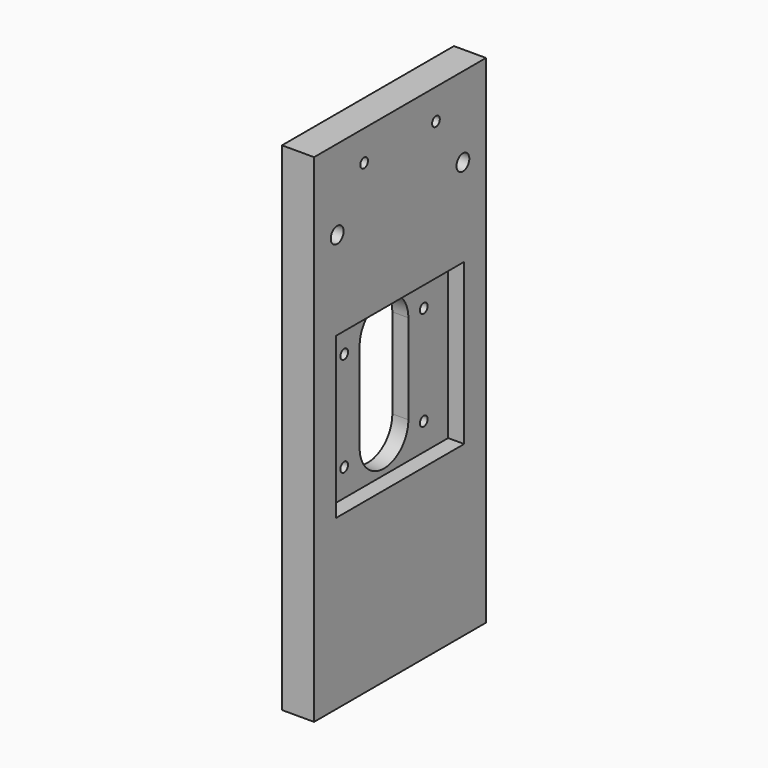
from build123d import *

# Parameters (mm, degrees)
SKETCH_W     = 67
SKETCH_H     = 155
SKETCH_R     = 1.5
SKETCH_R_2   = 2.5
PAD_DEPTH    = 10
SKETCH001_W  = 50
SKETCH001_H  = 50
POCKET_DEPTH = 5


with BuildPart() as part:
    # Sketch → Pad (new body)
    with BuildSketch(Plane.YZ):
        Rectangle(SKETCH_W, SKETCH_H)
        with Locations((-15.5, 14.5)):
            Circle(SKETCH_R, mode=Mode.SUBTRACT)
        with Locations((15.5, 14.5)):
            Circle(SKETCH_R, mode=Mode.SUBTRACT)
        with Locations((15.5, -16.5)):
            Circle(SKETCH_R, mode=Mode.SUBTRACT)
        with Locations((-15.5, -16.5)):
            Circle(SKETCH_R, mode=Mode.SUBTRACT)
        with Locations((24.5, 52.5)):
            Circle(SKETCH_R_2, mode=Mode.SUBTRACT)
        with Locations((-24.5, 52.5)):
            Circle(SKETCH_R_2, mode=Mode.SUBTRACT)
        with Locations((14, 68)):
            Circle(SKETCH_R, mode=Mode.SUBTRACT)
        with Locations((-14, 68)):
            Circle(SKETCH_R, mode=Mode.SUBTRACT)
        with BuildLine():
            ThreePointArc((-9.5, -13.694169), (0, -23.194169), (9.5, -13.694169))
            Line((9.5, -13.694169), (9.5, 14.305831))
            ThreePointArc((9.5, 14.305831), (0, 23.805831), (-9.5, 14.305831))
            Line((-9.5, -13.694169), (-9.5, 14.305831))
        make_face(mode=Mode.SUBTRACT)
    extrude(amount=PAD_DEPTH)

    # Sketch001 (on Face18 of Pad) → Pocket (cut)
    with BuildSketch(Plane.YZ.offset(10)):
        Rectangle(SKETCH001_W, SKETCH001_H)
    extrude(amount=-POCKET_DEPTH, mode=Mode.SUBTRACT)


solid = part.part
